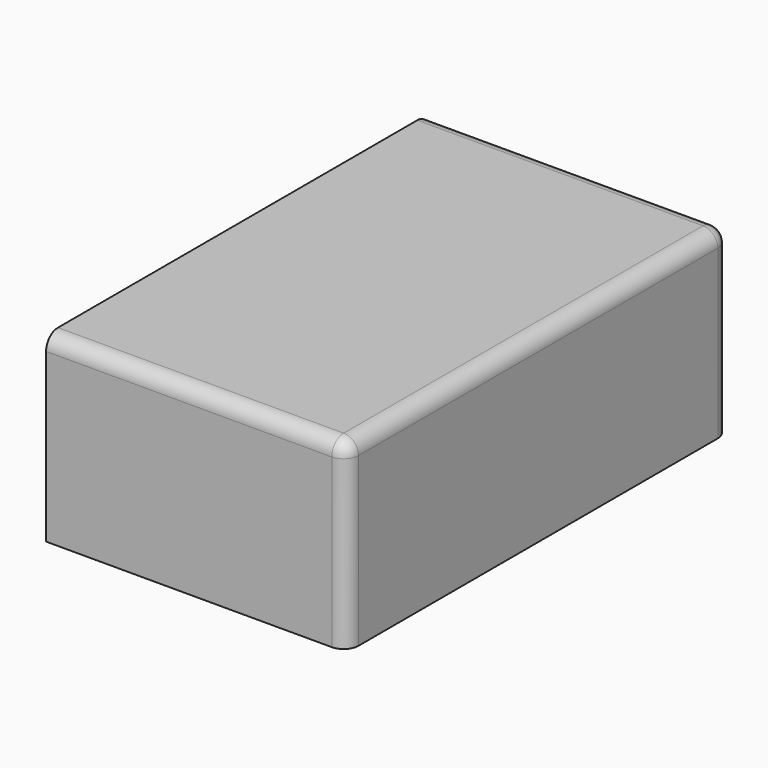
from build123d import *

# Parameters (mm, degrees)
SKETCH002_W  = 5.06
SKETCH002_H  = 3.07
PAD002_DEPTH = 4.03
FILLET_R     = 0.25
FILLET003_R  = 0.25


with BuildPart() as part:
    # Sketch002 → Pad002 (new body, symmetric)
    with BuildSketch(Plane.XZ):
        with Locations((-15.95, 2.86937)):
            Rectangle(SKETCH002_W, SKETCH002_H)
    extrude(amount=PAD002_DEPTH, both=True)

    # Fillet
    fillet_edges = [part.edges().sort_by_distance(p)[0] for p in [
        (-15.95, 4.03, 4.40437),
        (-15.95, -4.03, 4.40437),
    ]]
    fillet(fillet_edges, radius=FILLET_R)

    # Fillet003
    fillet003_edges = [part.edges().sort_by_distance(p)[0] for p in [
        (-13.42, 0, 4.40437),
    ]]
    fillet(fillet003_edges, radius=FILLET003_R)


solid = part.part
